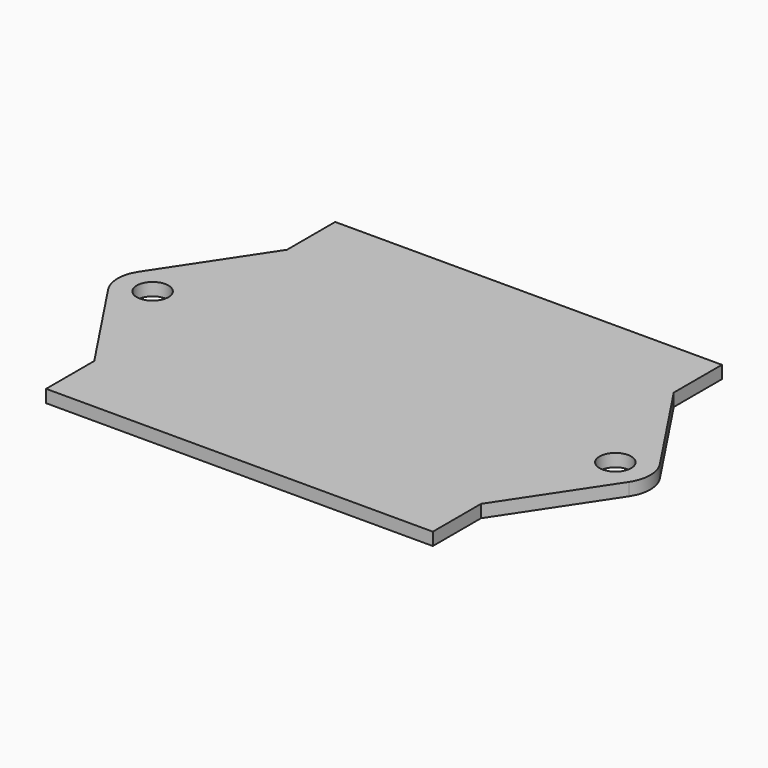
from build123d import *

# Parameters (mm, degrees)
F0_R     = 1.25
F1_DEPTH = 1


with BuildPart() as f1:
    # F0 (on Top) → F1 (new body)
    with BuildSketch(Plane.XY):
        Polygon((15.25, 9.5), (15.25, 14.25), (-15.25, 14.25), (-15.25, 9.5), (-15.25, -9.5), (-15.25, -14.25), (15.25, -14.25), (15.25, -9.5), align=None)
        with BuildLine():
            Line((-15.25, -9.5), (-15.25, 9.5))
            Line((-15.25, 9.5), (-20.541877, 1.519803))
            ThreePointArc((-20.541877, 1.519803), (-21, 0), (-20.541877, -1.519803))
            Line((-20.541877, -1.519803), (-15.25, -9.5))
        make_face()
        with Locations((-18.25, 0)):
            Circle(F0_R, mode=Mode.SUBTRACT)
        with BuildLine():
            Line((20.541877, 1.519803), (15.25, 9.5))
            Line((15.25, 9.5), (15.25, -9.5))
            Line((15.25, -9.5), (20.541877, -1.519803))
            ThreePointArc((20.541877, -1.519803), (21, 0), (20.541877, 1.519803))
        make_face()
        with Locations((18.25, 0)):
            Circle(F0_R, mode=Mode.SUBTRACT)
    extrude(amount=F1_DEPTH)


solid = f1.part
